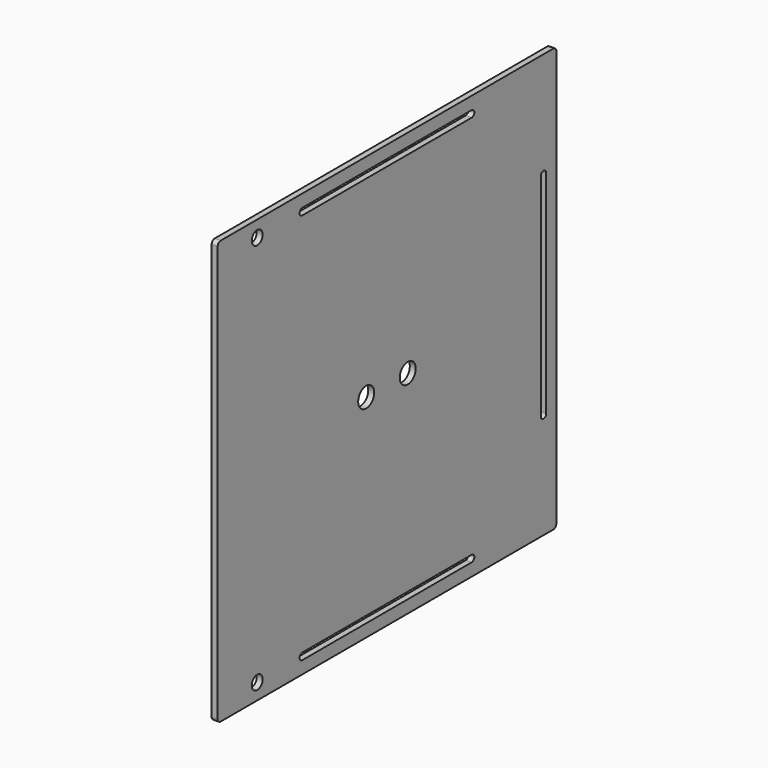
from build123d import *

# Parameters (mm, degrees)
SKETCH_R   = 2.127
SKETCH_R_2 = 3.127
PAD_DEPTH  = 1.8542


with BuildPart() as part:
    # Sketch (on Face33 of Binder001) → Pad (new body)
    with BuildSketch(Plane.YZ):
        with BuildLine():
            Line((0, 10), (130.1, 10))
            ThreePointArc((131.3, 8.8), (130.948528, 9.648528), (130.1, 10))
            Line((131.3, 8.8), (131.3, -121.3))
            ThreePointArc((130.1, -122.5), (130.948528, -122.148528), (131.3, -121.3))
            Line((0, -122.5), (130.1, -122.5))
            ThreePointArc((-1.2, -121.3), (-0.848528, -122.148528), (0, -122.5))
            Line((-1.2, 8.8), (-1.2, -121.3))
            ThreePointArc((0, 10), (-0.848528, 9.648528), (-1.2, 8.8))
        make_face()
        with Locations((14.3, 5)):
            Circle(SKETCH_R, mode=Mode.SUBTRACT)
        with Locations((14.3, -117.5)):
            Circle(SKETCH_R, mode=Mode.SUBTRACT)
        with Locations((56.923, -56.25)):
            Circle(SKETCH_R_2, mode=Mode.SUBTRACT)
        with Locations((73.177, -56.25)):
            Circle(SKETCH_R_2, mode=Mode.SUBTRACT)
        with BuildLine():
            Line((31.925, 3.9459), (98.175, 3.9459))
            ThreePointArc((98.175, 3.9459), (99.2291, 5), (98.175, 6.0541))
            Line((98.175, 6.0541), (31.925, 6.0541))
            ThreePointArc((31.925, 6.0541), (30.8709, 5), (31.925, 3.9459))
        make_face(mode=Mode.SUBTRACT)
        with BuildLine():
            ThreePointArc((127.3541, -23.125), (126.3, -22.0709), (125.2459, -23.125))
            Line((125.2459, -23.125), (125.2459, -89.375))
            ThreePointArc((125.2459, -89.375), (126.3, -90.4291), (127.3541, -89.375))
            Line((127.3541, -23.125), (127.3541, -89.375))
        make_face(mode=Mode.SUBTRACT)
        with BuildLine():
            ThreePointArc((31.925, -116.4459), (30.8709, -117.5), (31.925, -118.5541))
            Line((31.925, -118.5541), (98.175, -118.5541))
            ThreePointArc((98.175, -118.5541), (99.2291, -117.5), (98.175, -116.4459))
            Line((31.925, -116.4459), (98.175, -116.4459))
        make_face(mode=Mode.SUBTRACT)
    extrude(amount=-PAD_DEPTH)


solid = part.part
